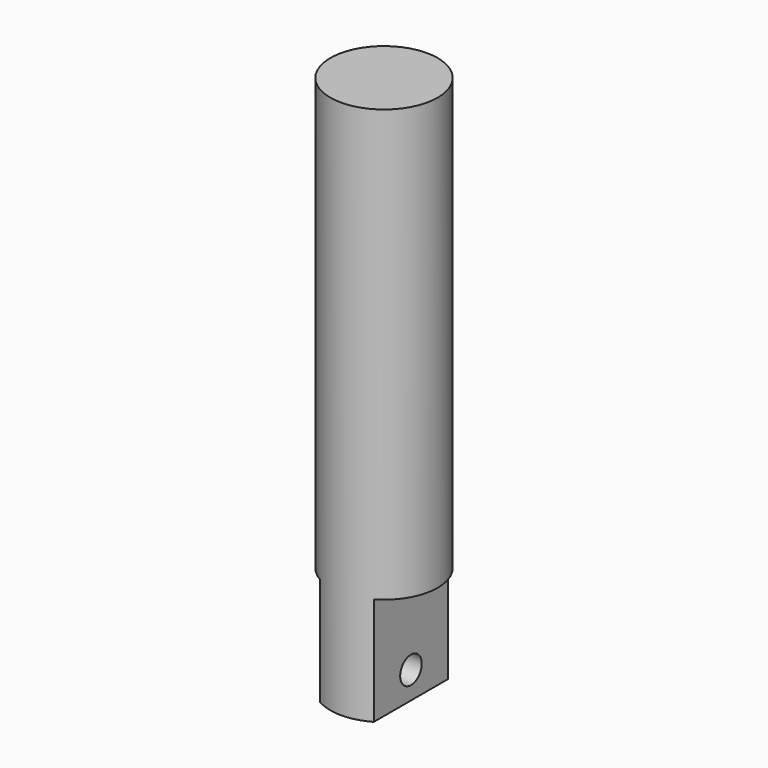
from build123d import *

# Parameters (mm, degrees)
F0_R     = 12.6365
F1_DEPTH = 127
F2_W     = 13.516908
F2_H     = 36.040129
F3_DEPTH = 12.7
F4_R     = 3.175
F5_DEPTH = 25.4


with BuildPart() as f1:
    # F0 (on Top) → F1 (new body)
    with BuildSketch(Plane.XY):
        Circle(F0_R)
    extrude(amount=F1_DEPTH)

    # F2 (on Front) → F3 (cut, symmetric)
    with BuildSketch(Plane.XZ):
        with Locations((-13.108454, 7.379935)):
            Rectangle(F2_W, F2_H)
        with Locations((13.108454, 7.379935)):
            Rectangle(F2_W, F2_H)
    extrude(amount=F3_DEPTH, both=True, mode=Mode.SUBTRACT)

    # F4 (on face) → F5 (cut)
    with BuildSketch(Plane(origin=(-6.35, 0, 0), x_dir=(0, -1, 0), z_dir=(-1, 0, 0))):
        with Locations((0, 6.35)):
            Circle(F4_R)
    extrude(amount=-F5_DEPTH, mode=Mode.SUBTRACT)


solid = f1.part
